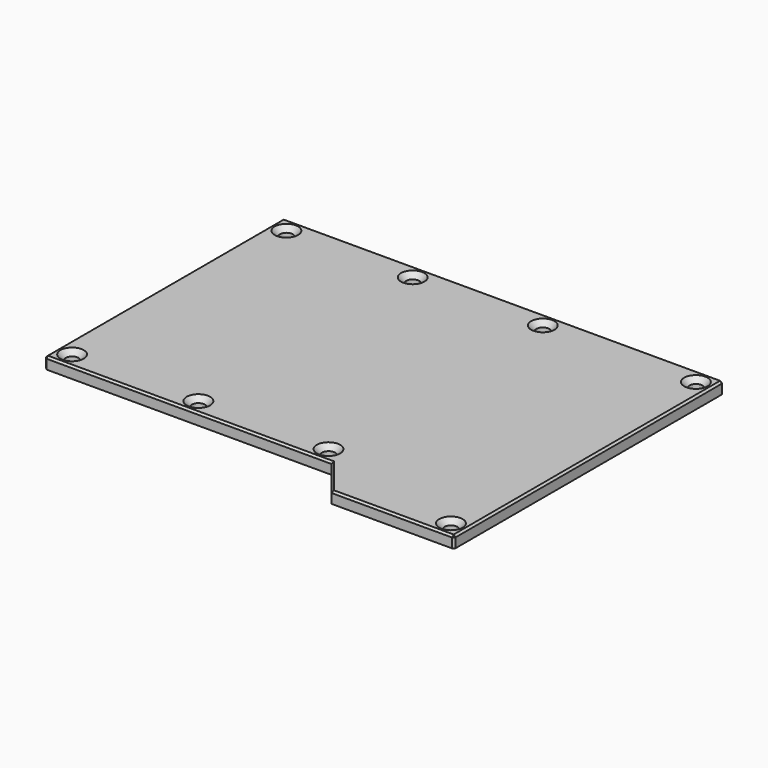
from build123d import *

# Parameters (mm, degrees)
PAD010_DEPTH        = 3
HOLE002_D           = 3.4
HOLE002_DEPTH       = 5
HOLE002_CSINK_D     = 6.1
HOLE002_CSINK_ANGLE = 90
SKETCH027_W         = 29
SKETCH027_H         = 29
POCKET009_DEPTH     = 1
CHAMFER001_SIZE     = 0.5


with BuildPart() as part:
    # Sketch022 (on Face1 of CopyPad011) → Pad010 (new body)
    with BuildSketch(Plane.XY.offset(24)):
        Polygon((-5, -7), (70, -7), (78, -17), (110, -17), (110, 71), (-5, 71), align=None)
    extrude(amount=PAD010_DEPTH)

    # Hole002
    with Locations(Plane.XY.offset(27)):
        with Locations((-1, 67), (106, 67), (106, -13), (-1, -3), (32, 67), (66, -3), (32, -3), (66, 67)):
            CounterSinkHole(HOLE002_D / 2, HOLE002_CSINK_D / 2, depth=HOLE002_DEPTH, counter_sink_angle=HOLE002_CSINK_ANGLE)

    # Sketch027 → Pocket009 (cut)
    with BuildSketch(Plane(origin=(0, 0, 24), x_dir=(1, 0, 0), z_dir=(0, 0, -1))):
        with Locations((27.5, -16.5)):
            Rectangle(SKETCH027_W, SKETCH027_H)
    extrude(amount=-POCKET009_DEPTH, mode=Mode.SUBTRACT)

    # Chamfer001
    chamfer001_edges = [part.edges().sort_by_distance(p)[0] for p in [
        (-5, 32, 27),
        (52.5, 71, 27),
        (110, 27, 27),
        (94, -17, 27),
        (74, -12, 27),
        (32.5, -7, 27),
        (110, 71, 25.5),
        (110, -17, 25.5),
        (-5, 71, 25.5),
        (-5, -7, 25.5),
    ]]
    chamfer(chamfer001_edges, length=CHAMFER001_SIZE)


with BuildPart() as part_1:
    # Body002 placement: moved
    add(part.part.moved(Location((0, 0, -2.5))))


solid = part_1.part
